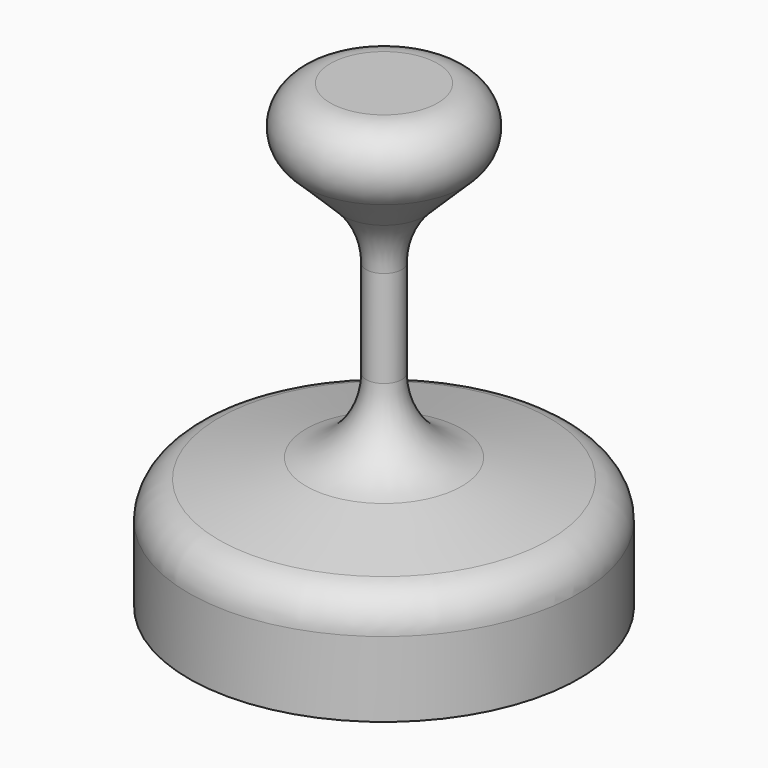
from build123d import *


with BuildPart() as f1:
    # F0 (on Right) → F1 (revolve)
    with BuildSketch(Plane.YZ):
        with BuildLine():
            Line((-51.330089, -73.760578), (0, -73.760578))
            Line((0, -73.760578), (0, 47.362838))
            Line((0, 47.362838), (-14.093457, 47.362838))
            ThreePointArc((-14.093457, 47.362838), (-23.352265, 41.140996), (-21.089705, 30.217734))
            Line((-21.089705, 30.217734), (-10.693563, 20.038178))
            ThreePointArc((-10.693563, 20.038178), (-6.249005, 13.498779), (-4.686059, 5.74797))
            Line((-4.686059, 5.74797), (-4.686059, -19.709873))
            ThreePointArc((-4.686059, -19.709873), (-9.122987, -32.271354), (-20.46514, -39.259396))
            Line((-20.46514, -39.259396), (-43.440548, -44.219994))
            ThreePointArc((-43.440548, -44.219994), (-49.111624, -47.714015), (-51.330089, -53.994756))
            Line((-51.330089, -53.994756), (-51.330089, -73.760578))
        make_face()
    revolve(axis=Axis((0, 0, -13.19887), (0, 0, -1)))


solid = f1.part
